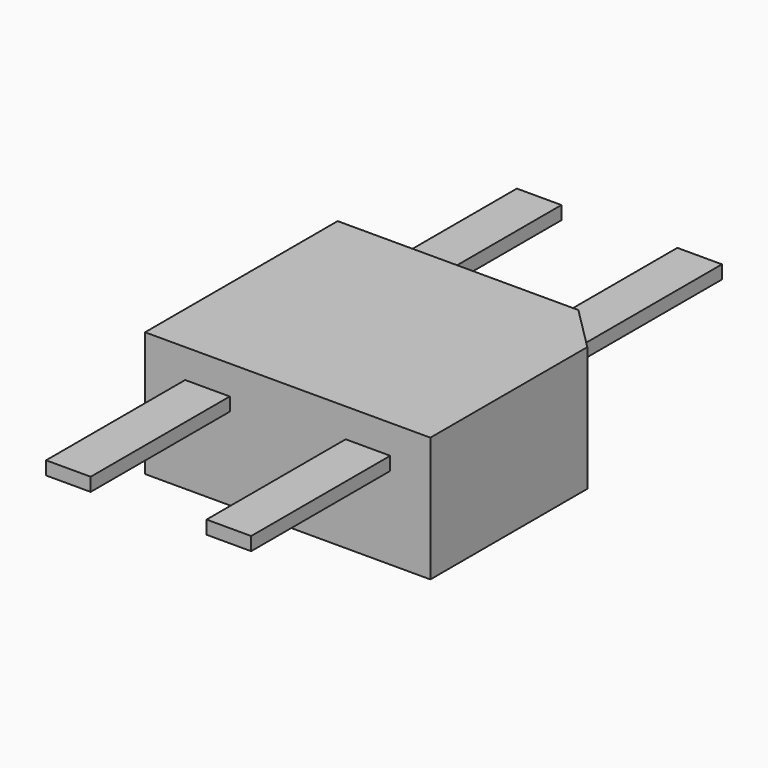
from build123d import *

# Parameters (mm, degrees)
SKETCH002_W                   = 0.5
SKETCH002_H                   = 6.6
PAD001_DEPTH                  = 0.075
PAD_DEPTH                     = 1
PAD_DEPTH_BACK                = 0.4
SKETCH001_W                   = 1.1
SKETCH001_H                   = 2
POCKET_DEPTH                  = 0.151
CHAMFER_SIZE                  = 0.15
OBJ1 = 180


with BuildPart() as pad001:
    # Sketch002 → Pad001 (new body, symmetric)
    with BuildSketch(Plane.XY):
        with Locations((-0.9, 0)):
            Rectangle(SKETCH002_W, SKETCH002_H)
        with Locations((0.9, 0)):
            Rectangle(SKETCH002_W, SKETCH002_H)
    extrude(amount=PAD001_DEPTH, both=True)


with BuildPart() as obj2:
    # Sketch → Pad (new body, two sides)
    with BuildSketch(Plane.XY) as pad_sk:
        Polygon((-1.1, 1.35), (1.6, 1.35), (1.6, -1.35), (-1.6, -1.35), (-1.6, 0.85), align=None)
    extrude(amount=PAD_DEPTH)
    extrude(pad_sk.sketch, amount=-PAD_DEPTH_BACK)

    # Sketch001 → Pocket (cut)
    with BuildSketch(Plane.XY.offset(1)):
        Polygon((-1.25, -1), (-0.15, -1), (-0.15, 1), (-1.05, 1), (-1.25, 0.8), align=None)
        with Locations((0.7, 0)):
            Rectangle(SKETCH001_W, SKETCH001_H)
    extrude(amount=-POCKET_DEPTH, mode=Mode.SUBTRACT)

    # Chamfer
    chamfer_edges = [obj2.edges().sort_by_distance(p)[0] for p in [
        (-1.15, 0.9, 0.849),
        (-0.6, 1, 0.849),
        (-1.25, -0.1, 0.849),
        (0.15, 0, 0.849),
        (0.7, 1, 0.849),
        (1.25, 0, 0.849),
        (-0.15, 0, 0.849),
        (0.7, -1, 0.849),
        (-0.7, -1, 0.849),
    ]]
    chamfer(chamfer_edges, length=CHAMFER_SIZE)

    add(pad001.part)


with BuildPart() as obj2_1:
    add(obj2.part.rotate(Axis((0, 0, 0), (0, 1, 0)), OBJ1))


solid = obj2_1.part
